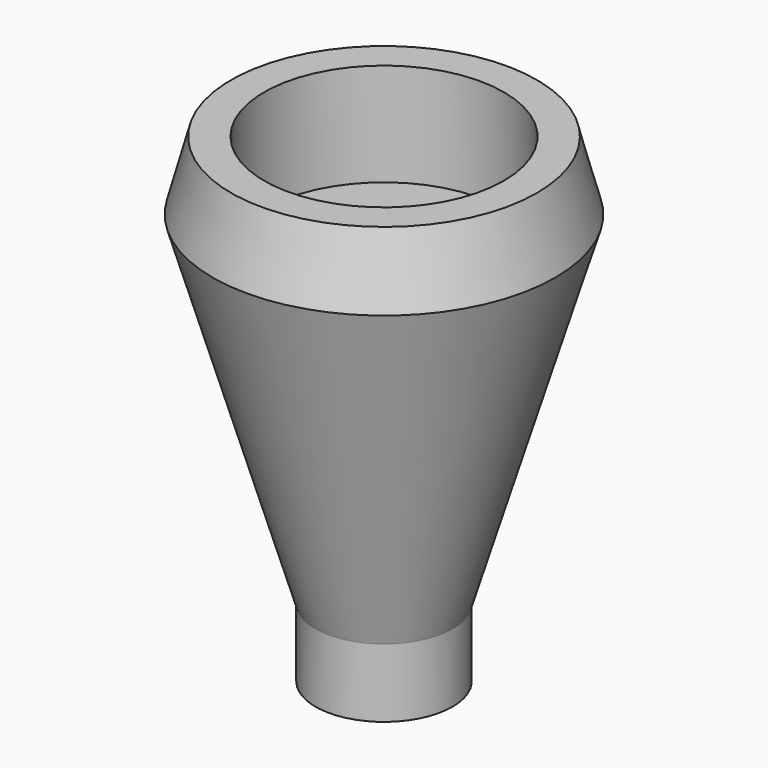
from build123d import *

# Parameters (mm, degrees)
F3_D           = 9.525
F3_DEPTH       = 38.1
F3_CBORE_D     = 22.225
F3_CBORE_DEPTH = 9.525
F3_TIP         = 2.8615986981


with BuildPart() as f1:
    # F0 (on Front) → F1 (revolve)
    with BuildSketch(Plane.XZ):
        Polygon((0, 38.1), (0, 0), (6.35, 0), (6.35, 6.35), (15.875, 38.1), (14.1735226281, 44.45), (0, 44.45), align=None)
    revolve(axis=Axis((0, 0, 22.225), (0, 0, 1)))

    # F3
    with Locations(Plane.XY.offset(44.45)):
        with Locations((0, 0)):
            CounterBoreHole(F3_D / 2, F3_CBORE_D / 2, F3_CBORE_DEPTH, depth=F3_DEPTH)
            with Locations((0, 0, -(F3_DEPTH + F3_TIP / 2))):  # 118° drill point
                Cone(0, F3_D / 2, F3_TIP, mode=Mode.SUBTRACT)


solid = f1.part
